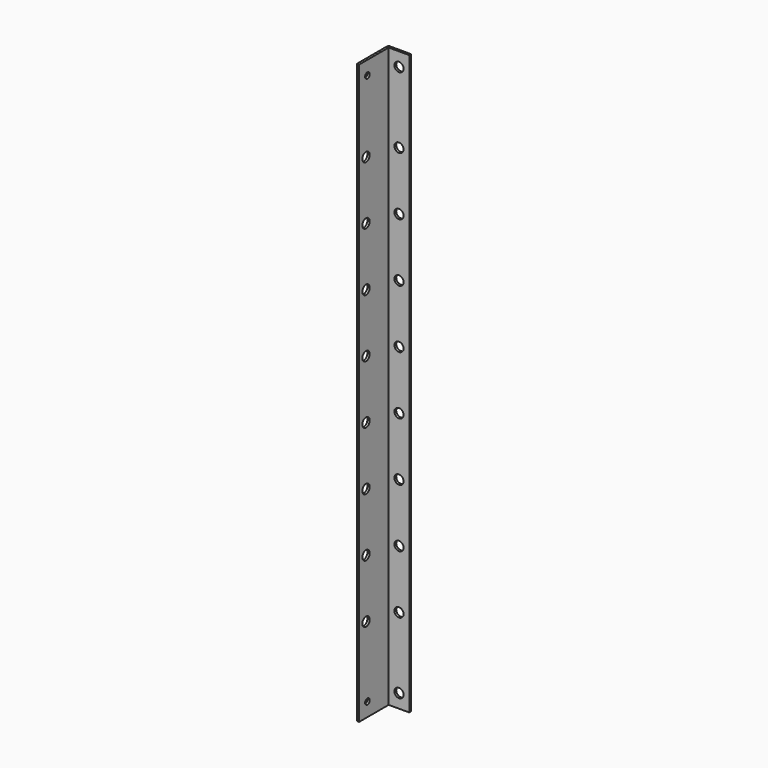
from build123d import *

# Parameters (mm, degrees)
F1_DEPTH = 505
F2_R     = 4
F2_R_2   = 2.5
F3_DEPTH = 2.001
F4_R     = 4
F5_DEPTH = 2.001


with BuildPart() as f1:
    # F0 (on Top) → F1 (new body)
    with BuildSketch(Plane.XY):
        with BuildLine():
            Line((0, 32.7), (0, 0))
            Line((0, 0), (2, 0))
            Line((2, 0), (2, 32.2))
            Line((2, 32.2), (20, 32.2))
            Line((20, 32.2), (20, 34.2))
            Line((20, 34.2), (1.5, 34.2))
            ThreePointArc((1.5, 34.2), (0.43934, 33.76066), (0, 32.7))
        make_face()
    extrude(amount=F1_DEPTH)

    # F2 (on face) → F3 (cut, through all)
    with BuildSketch(Plane.YZ.offset(2)):
        with Locations((7.5, 431)):
            Circle(F2_R)
        with Locations((7.5, 380)):
            Circle(F2_R)
        with Locations((7.5, 329)):
            Circle(F2_R)
        with Locations((7.5, 278)):
            Circle(F2_R)
        with Locations((7.5, 227)):
            Circle(F2_R)
        with Locations((7.5, 176)):
            Circle(F2_R)
        with Locations((7.5, 125)):
            Circle(F2_R)
        with Locations((7.5, 74)):
            Circle(F2_R)
        with Locations((9, 12)):
            Circle(F2_R_2)
        with Locations((9, 493)):
            Circle(F2_R_2)
    extrude(amount=-F3_DEPTH, mode=Mode.SUBTRACT)

    # F4 (on face) → F5 (cut, through all)
    with BuildSketch(Plane.XZ.offset(-32.2)):
        with Locations((11, 74)):
            Circle(F4_R)
        with Locations((11, 125)):
            Circle(F4_R)
        with Locations((11, 12)):
            Circle(F4_R)
        with Locations((11, 176)):
            Circle(F4_R)
        with Locations((11, 227)):
            Circle(F4_R)
        with Locations((11, 278)):
            Circle(F4_R)
        with Locations((11, 329)):
            Circle(F4_R)
        with Locations((11, 380)):
            Circle(F4_R)
        with Locations((11, 431)):
            Circle(F4_R)
        with Locations((11, 493)):
            Circle(F4_R)
    extrude(amount=-F5_DEPTH, mode=Mode.SUBTRACT)


solid = f1.part
